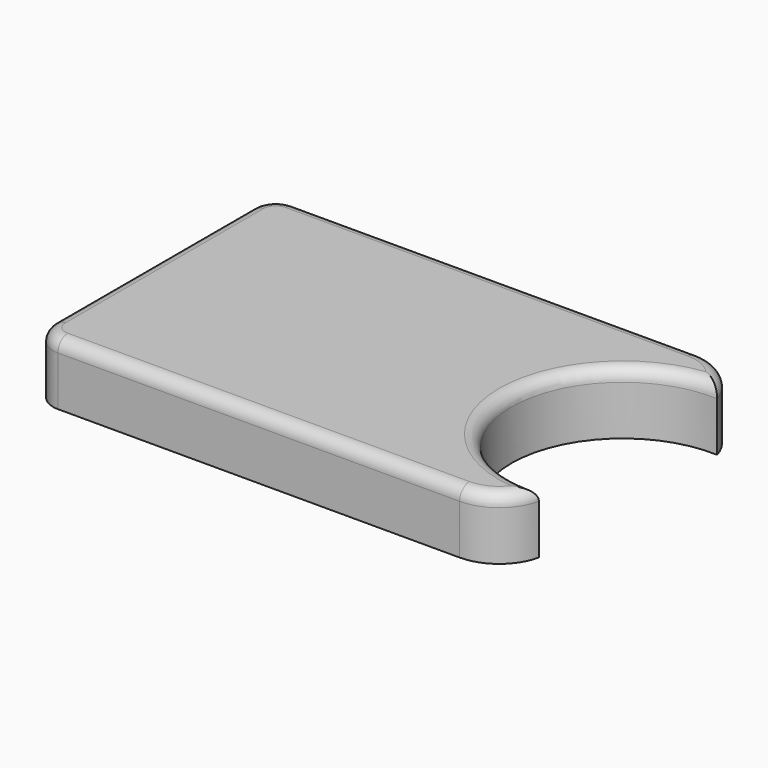
from build123d import *

# Parameters (mm, degrees)
F1_DEPTH = 25
F2_R     = 5


with BuildPart() as f1:
    # F0 (on Top) → F1 (new body)
    with BuildSketch(Plane.XY):
        with BuildLine():
            Line((73.27253, 59.831257), (-89.452814, 59.831257))
            ThreePointArc((-89.452814, 59.831257), (-96.523882, 56.902325), (-99.452814, 49.831257))
            Line((-99.452814, 49.831257), (-99.452814, -50.168743))
            ThreePointArc((-99.452814, -50.168743), (-96.523882, -57.239811), (-89.452814, -60.168743))
            Line((-89.452814, -60.168743), (72.86438, -60.168743))
            ThreePointArc((72.86438, -60.168743), (85.371822, -55.775277), (92.384161, -44.525133))
            ThreePointArc((92.384161, -44.525133), (45.345589, 0.480687), (92.488089, 45.377633))
            ThreePointArc((92.488089, 45.377633), (85.294852, 55.814491), (73.27253, 59.831257))
        make_face()
    extrude(amount=F1_DEPTH)

    # F2
    f2_edges = [f1.edges().sort_by_distance(p)[0] for p in [
        (-8.090142, 59.831257, 25),
        (-99.452814, -0.168743, 25),
        (-8.294217, -60.168743, 25),
        (45.345589, 0.480687, 25),
    ]]
    fillet(f2_edges, radius=F2_R)


solid = f1.part
